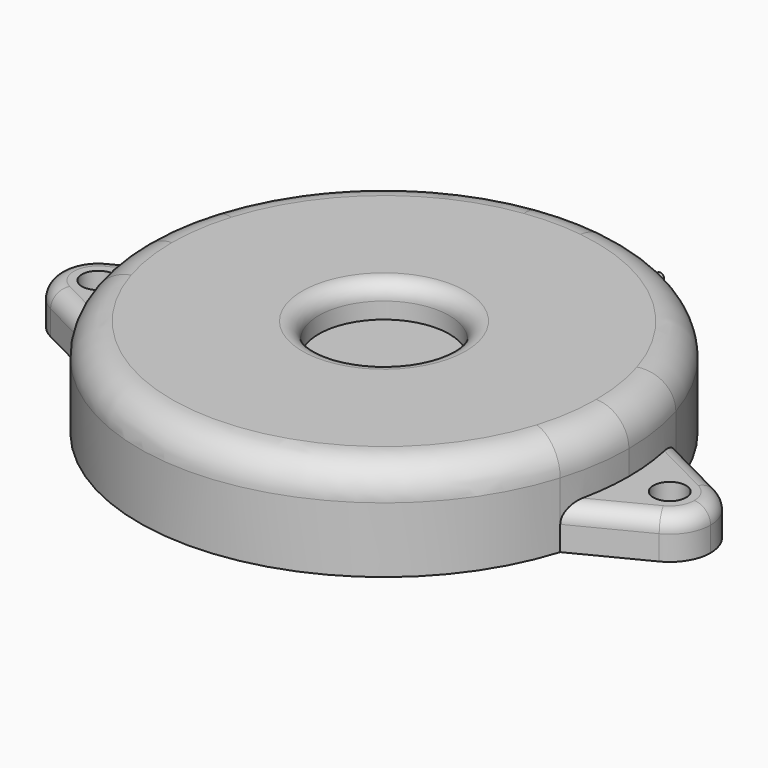
from build123d import *

# Parameters (mm, degrees)
F1_DEPTH = 6
F0_R     = 1
F2_DEPTH = 2.5
F3_R     = 4
F4_DEPTH = 2
F5_R     = 2
F6_DEPTH = 1
F7_R     = 0.25
F8_DEPTH = 5
F9_R     = 1


with BuildPart() as f1:
    # F0 (on Top) → F1 (new body)
    with BuildSketch(Plane.XY):
        with BuildLine():
            ThreePointArc((14.3325547763, -4.4246890947), (14.8322001342, -2.2373732764), (15, 0))
            ThreePointArc((15, 0), (14.8322001342, 2.2373732764), (14.3325547763, 4.4246890947))
            ThreePointArc((14.3325547763, 4.4246890947), (9.6924552433, 11.447982851), (2, 14.8660687473))
            ThreePointArc((2, 14.8660687473), (0, 15), (-2, 14.8660687473))
            ThreePointArc((-2, 14.8660687473), (-9.6924552433, 11.447982851), (-14.3325547763, 4.4246890947))
            ThreePointArc((-14.3325547763, 4.4246890947), (-14.8322001342, 2.2373732764), (-15, 0))
            ThreePointArc((-15, 0), (-14.8322001342, -2.2373732764), (-14.3325547763, -4.4246890947))
            ThreePointArc((-14.3325547763, -4.4246890947), (0, -15), (14.3325547763, -4.4246890947))
        make_face()
    extrude(amount=F1_DEPTH)

    # F0 (on Top) → F2 (join)
    with BuildSketch(Plane.XY):
        with BuildLine():
            ThreePointArc((-18.6370210525, 2.2264732485), (-16.1947323323, 2.132199877), (-15, 0))
            ThreePointArc((-15, 0), (-14.8322001342, 2.2373732764), (-14.3325547763, 4.4246890947))
            Line((-14.3325547763, 4.4246890947), (-18.6370210525, 2.2264732485))
        make_face()
        with BuildLine():
            ThreePointArc((-18.6370210525, -2.2264732485), (-16.1947323323, -2.132199877), (-15, 0))
            ThreePointArc((-15, 0), (-16.1947323323, 2.132199877), (-18.6370210525, 2.2264732485))
            ThreePointArc((-18.6370210525, 2.2264732485), (-20, 0), (-18.6370210525, -2.2264732485))
        make_face()
        with Locations((-17.5, 0)):
            Circle(F0_R, mode=Mode.SUBTRACT)
        with BuildLine():
            ThreePointArc((14.3325547763, 4.4246890947), (14.8322001342, 2.2373732764), (15, 0))
            ThreePointArc((15, 0), (16.1947323323, 2.132199877), (18.6370210525, 2.2264732485))
            Line((18.6370210525, 2.2264732485), (14.3325547763, 4.4246890947))
        make_face()
        with BuildLine():
            ThreePointArc((18.6370210525, 2.2264732485), (16.1947323323, 2.132199877), (15, 0))
            ThreePointArc((15, 0), (16.1947323323, -2.132199877), (18.6370210525, -2.2264732485))
            ThreePointArc((18.6370210525, -2.2264732485), (19.632199877, -1.3052676677), (20, 0))
            ThreePointArc((20, 0), (19.632199877, 1.3052676677), (18.6370210525, 2.2264732485))
        make_face()
        with Locations((17.5, 0)):
            Circle(F0_R, mode=Mode.SUBTRACT)
        with BuildLine():
            ThreePointArc((18.6370210525, -2.2264732485), (16.1947323323, -2.132199877), (15, 0))
            ThreePointArc((15, 0), (14.8322001342, -2.2373732764), (14.3325547763, -4.4246890947))
            Line((14.3325547763, -4.4246890947), (18.6370210525, -2.2264732485))
        make_face()
        with BuildLine():
            Line((-18.6370210525, -2.2264732485), (-14.3325547763, -4.4246890947))
            ThreePointArc((-14.3325547763, -4.4246890947), (-14.8322001342, -2.2373732764), (-15, 0))
            ThreePointArc((-15, 0), (-16.1947323323, -2.132199877), (-18.6370210525, -2.2264732485))
        make_face()
    extrude(amount=F2_DEPTH)

    # F3 (on face) → F4 (cut)
    with BuildSketch(Plane.XY.offset(6)):
        Circle(F3_R)
    extrude(amount=-F4_DEPTH, mode=Mode.SUBTRACT)

    # F5
    f5_edges = [f1.edges().sort_by_distance(p)[0] for p in [
        (15, 0, 6),
    ]]
    fillet(f5_edges, radius=F5_R)

    # F0 (on Top) → F6 (join)
    with BuildSketch(Plane.XY):
        with BuildLine():
            ThreePointArc((-2, 14.8660687473), (0, 15), (2, 14.8660687473))
            Line((2, 14.8660687473), (2, 15.0660687473))
            Line((2, 15.0660687473), (0, 15.0660687473))
            Line((0, 15.0660687473), (-2, 15.0660687473))
            Line((-2, 15.0660687473), (-2, 14.8660687473))
        make_face()
    extrude(amount=F6_DEPTH)

    # F7 (on face) → F8 (join)
    with BuildSketch(Plane(origin=(0, 15.0660687473, 0), x_dir=(-1, 0, 0), z_dir=(0, 1, 0))):
        with Locations((-0.8499287069, 0.4951201845)):
            Circle(F7_R)
        with Locations((0.8499287069, 0.4951201845)):
            Circle(F7_R)
    extrude(amount=F8_DEPTH)

    # F9
    f9_edges = [f1.edges().sort_by_distance(p)[0] for p in [
        (16.484788, -3.325581, 2.5),
        (-16.484788, 3.325581, 2.5),
        (-4, 0, 6),
    ]]
    fillet(f9_edges, radius=F9_R)


solid = f1.part
